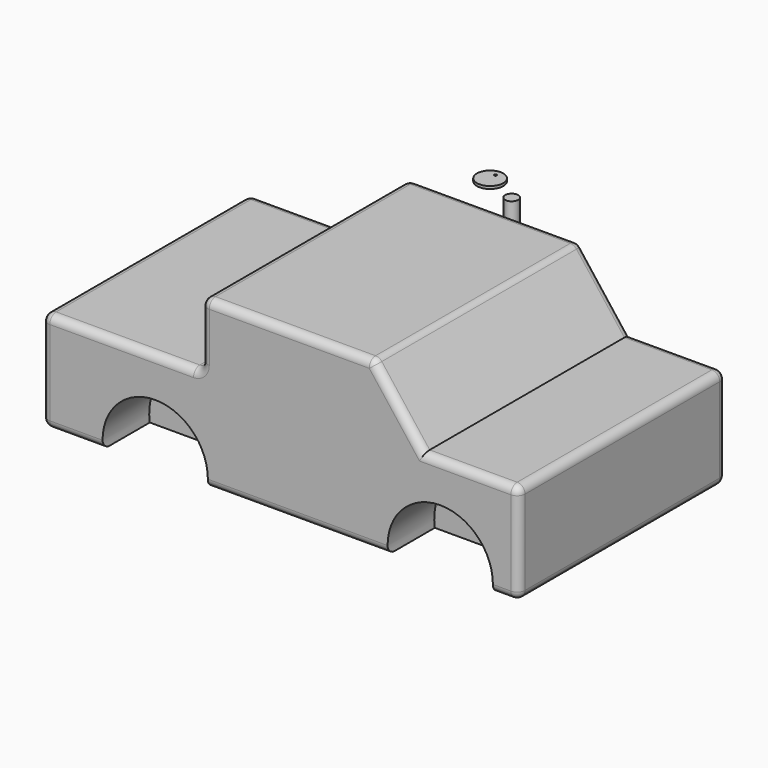
from build123d import *

# Parameters (mm, degrees)
F1_DEPTH = 250
F2_R     = 7.62
F4_DEPTH = 259.08
F5_W     = 143.2349812942
F5_H     = 137.5237668699
F5_W_2   = 109.7349864202
F5_W_3   = 174.5495027389
F6_DEPTH = 88.9
F7_R     = 6.35
F8_DEPTH = 76.2
F7_R_2   = 12.7
F7_R_3   = 1.1349906825
F9_DEPTH = 73.66


with BuildPart() as f1:
    # F0 (on Front) → F1 (new body)
    with BuildSketch(Plane.XZ):
        Polygon((-230, 17.0017518103), (-230, -80), (230, -80), (230, 17.0017518103), (138.0227927625, 17.0017518103), (89.5114019513, 80), (-76.1807560921, 80), (-76.1807560921, 17.0017518103), align=None)
    extrude(amount=F1_DEPTH)

    # F2
    f2_edges = [f1.edges().sort_by_distance(p)[0] for p in [
        (184.011396, -250, 17.001752),
        (230, -125, 17.001752),
        (230, -250, -31.499124),
        (113.767097, -250, 48.500876),
        (89.511402, -125, 80),
        (184.011396, 0, 17.001752),
        (113.767097, 0, 48.500876),
        (230, 0, -31.499124),
        (230, -125, -80),
        (0, -250, -80),
        (6.665323, -250, 80),
        (-76.180756, -250, 48.500876),
        (-153.090378, -250, 17.001752),
        (-230, -250, -31.499124),
        (-76.180756, -125, 80),
        (-76.180756, -125, 17.001752),
        (-76.180756, 0, 48.500876),
        (-230, -125, 17.001752),
        (-230, -125, -80),
        (-230, 0, -31.499124),
        (6.665323, 0, 80),
        (-153.090378, 0, 17.001752),
        (0, 0, -80),
    ]]
    fillet(f2_edges, radius=F2_R)

    # F3 (on face) → F4 (cut)
    with BuildSketch(Plane.XZ.offset(250)):
        with BuildLine():
            Line((-171.550002563, -72.38), (-69.950002563, -72.38))
            ThreePointArc((-69.950002563, -72.38), (-120.750002563, -21.58), (-171.550002563, -72.38))
        make_face()
        with BuildLine():
            ThreePointArc((-171.550002563, -72.38), (-120.750002563, -123.18), (-69.950002563, -72.38))
            Line((-69.950002563, -72.38), (-171.550002563, -72.38))
        make_face()
        with BuildLine():
            ThreePointArc((103.449997437, -72.38), (154.249997437, -123.18), (205.049997437, -72.38))
            Line((205.049997437, -72.38), (103.449997437, -72.38))
        make_face()
        with BuildLine():
            Line((103.449997437, -72.38), (205.049997437, -72.38))
            ThreePointArc((205.049997437, -72.38), (154.249997437, -21.58), (103.449997437, -72.38))
        make_face()
    extrude(amount=-F4_DEPTH, mode=Mode.SUBTRACT)

    # F5 (on face) → F6 (join)
    with BuildSketch(Plane(origin=(0, 0, -80), x_dir=(1, 0, 0), z_dir=(0, 0, -1))):
        with Locations((-142.1422445795, 124.997483435)):
            Rectangle(F5_W, F5_H)
        with Locations((158.8922420165, 124.997483435)):
            Rectangle(F5_W_2, F5_H)
        with Locations((16.749997437, 124.997483435)):
            Rectangle(F5_W_3, F5_H)
    extrude(amount=-F6_DEPTH)


with BuildPart() as f8:
    # F7 (on Top) → F8 (new body)
    with BuildSketch(Plane.XY):
        with Locations((0, 29.0019685285)):
            Circle(F7_R)
    extrude(amount=F8_DEPTH)


with BuildPart() as f8b:
    # F7 (on Top) → F8, piece 2 (new body)
    with BuildSketch(Plane.XY):
        with Locations((-32.2995707393, 43.3076322079)):
            Circle(F7_R_2)
        with Locations((-32.2995707393, 49.8697608709)):
            Circle(F7_R_3, mode=Mode.SUBTRACT)
    extrude(amount=F8_DEPTH)

    # F9 (cut): a face of the model
    f9_faces = [f8b.faces().sort_by_distance(p)[0] for p in [
        (-32.2995707393, 43.2547993047, 0),
    ]]
    extrude(f9_faces, amount=-F9_DEPTH, mode=Mode.SUBTRACT)


solid = Compound([f1.part, f8.part, f8b.part])
